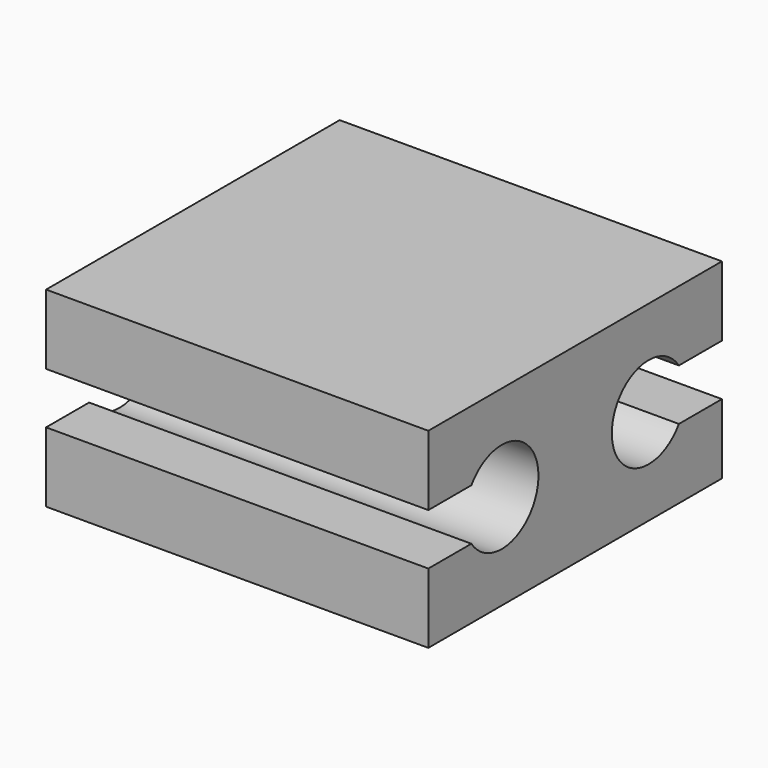
from build123d import *

# Parameters (mm, degrees)
F0_W     = 6.35
F0_H     = 6.096
F1_DEPTH = 3.175
F3_DEPTH = 6.351


with BuildPart() as f1:
    # F0 (on Top) → F1 (new body)
    with BuildSketch(Plane.XY):
        Rectangle(F0_W, F0_H)
    extrude(amount=F1_DEPTH)

    # F2 (on face) → F3 (cut, through all)
    with BuildSketch(Plane.YZ.offset(3.175)):
        with BuildLine():
            Line((3.048, 2.014858), (2.15488, 2.014858))
            ThreePointArc((2.15488, 2.014858), (0.762, 1.5875), (2.15488, 1.160142))
            Line((2.15488, 1.160142), (3.048, 1.160142))
            Line((3.048, 1.160142), (3.048, 2.014858))
        make_face()
        with BuildLine():
            Line((-2.15488, 2.014858), (-3.048, 2.014858))
            Line((-3.048, 2.014858), (-3.048, 1.160142))
            Line((-3.048, 1.160142), (-2.15488, 1.160142))
            ThreePointArc((-2.15488, 1.160142), (-0.762, 1.5875), (-2.15488, 2.014858))
        make_face()
    extrude(amount=-F3_DEPTH, mode=Mode.SUBTRACT)


solid = f1.part
